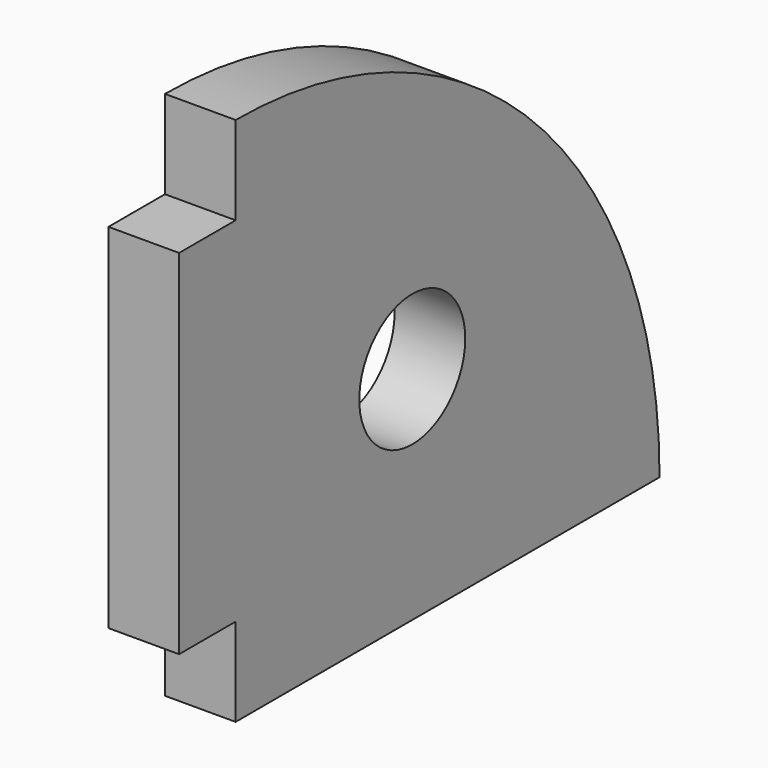
from build123d import *

# Parameters (mm, degrees)
F0_R     = 7.5
F1_DEPTH = 8


with BuildPart() as f1:
    # F0 (on Right) → F1 (new body)
    with BuildSketch(Plane.YZ):
        with BuildLine():
            Line((0, 10), (0, 0))
            Line((0, 0), (60, 0))
            ThreePointArc((60, 0), (42.426407, 42.426407), (0, 60))
            Line((0, 60), (0, 50))
            Line((0, 50), (-8, 50))
            Line((-8, 50), (-8, 10))
            Line((-8, 10), (0, 10))
        make_face()
        with Locations((25, 25)):
            Circle(F0_R, mode=Mode.SUBTRACT)
    extrude(amount=F1_DEPTH)


solid = f1.part
